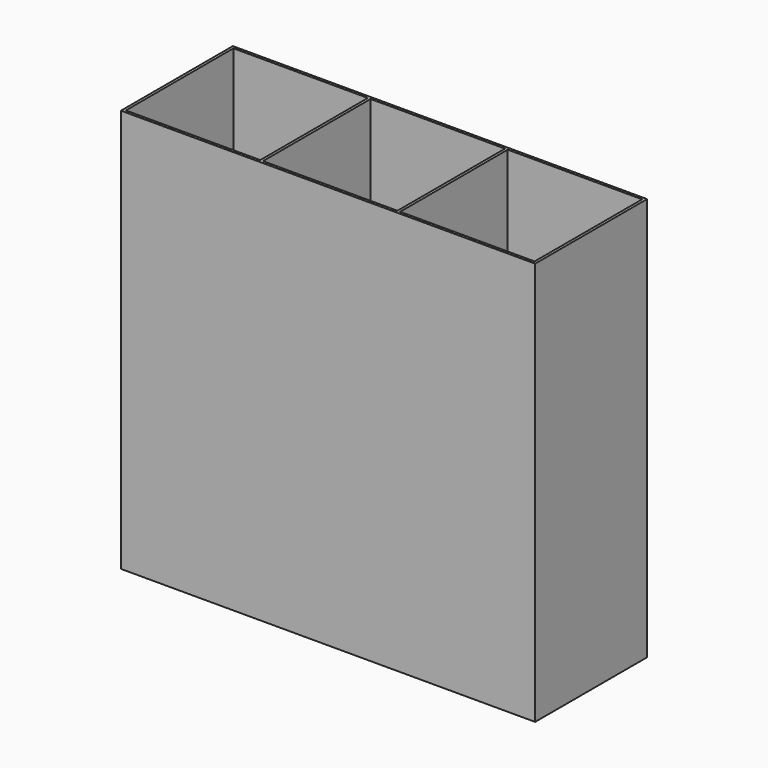
from build123d import *

# Parameters (mm, degrees)
F0_W     = 154
F0_H     = 52
F1_DEPTH = 150
F2_W     = 50
F2_H     = 50
F3_DEPTH = 149


with BuildPart() as f1:
    # F0 (on Top) → F1 (new body)
    with BuildSketch(Plane.XY):
        Rectangle(F0_W, F0_H)
    extrude(amount=F1_DEPTH)

    # F2 (on face) → F3 (cut)
    with BuildSketch(Plane.XY.offset(150)):
        with Locations((-51, 0)):
            Rectangle(F2_W, F2_H)
        Rectangle(F2_W, F2_H)
        with Locations((51, 0)):
            Rectangle(F2_W, F2_H)
    extrude(amount=-F3_DEPTH, mode=Mode.SUBTRACT)


solid = f1.part
